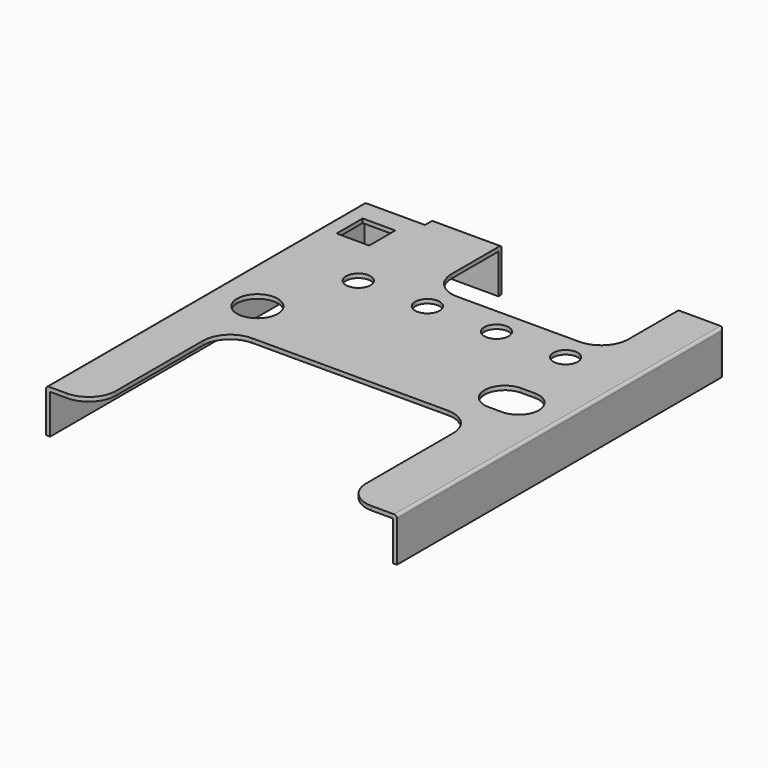
from build123d import *

# Parameters (mm, degrees)
F0_R     = 0.75
F0_R_2   = 0.45
F0_W     = 1.2
F0_H     = 1.2
F1_DEPTH = 0.15
F2_W     = 1.5
F2_H     = 0.15
F2_W_2   = 0.15
F2_H_2   = 14.45
F3_DEPTH = 1.45
F4_R     = 1
F5_R     = 0.1


with BuildPart() as f1:
    # F0 (on Top) → F1 (new body)
    with BuildSketch(Plane.XY):
        Polygon((0, 14.6), (0, 0), (1.77, 0), (1.77, 6), (10.97, 6), (10.97, 0), (12.9, 0), (12.9, 15), (11.25, 15), (11.25, 11.7), (4.75, 11.7), (4.75, 15), (2.25, 15), (2.25, 14.6), align=None)
        with Locations((1.65, 7.65)):
            Circle(F0_R, mode=Mode.SUBTRACT)
        with Locations((2.92, 10.7)):
            Circle(F0_R_2, mode=Mode.SUBTRACT)
        with Locations((5.46, 10.7)):
            Circle(F0_R_2, mode=Mode.SUBTRACT)
        with Locations((1.2, 13.2)):
            Rectangle(F0_W, F0_H, mode=Mode.SUBTRACT)
        with Locations((8, 10.7)):
            Circle(F0_R_2, mode=Mode.SUBTRACT)
        with BuildLine():
            ThreePointArc((11.25, 8.4), (12, 7.65), (11.25, 6.9))
            Line((11.25, 6.9), (10.75, 6.9))
            ThreePointArc((10.75, 6.9), (10, 7.65), (10.75, 8.4))
            Line((10.75, 8.4), (11.25, 8.4))
        make_face(mode=Mode.SUBTRACT)
        with Locations((10.54, 10.7)):
            Circle(F0_R_2, mode=Mode.SUBTRACT)
    extrude(amount=F1_DEPTH)

    # F2 (on face) → F3 (join)
    with BuildSketch(Plane(origin=(0, 0, 0), x_dir=(1, 0, 0), z_dir=(0, 0, -1))):
        Polygon((12.9, -15), (12.9, 0), (12.75, 0), (12.75, -14.85), (12.75, -15), align=None)
        with Locations((12, -14.925)):
            Rectangle(F2_W, F2_H)
        Polygon((4.75, -15), (4.75, -14.85), (2.4, -14.85), (2.25, -14.85), (2.25, -15), align=None)
        Polygon((2.25, -14.85), (2.4, -14.85), (2.4, -14.45), (2.25, -14.45), (2.25, -14.6), align=None)
        Polygon((2.25, -14.45), (0.15, -14.45), (0, -14.45), (0, -14.6), (2.25, -14.6), align=None)
        with Locations((0.075, -7.225)):
            Rectangle(F2_W_2, F2_H_2)
    extrude(amount=F3_DEPTH)

    # F4
    f4_edges = [f1.edges().sort_by_distance(p)[0] for p in [
        (1.77, 6, 0.075),
        (1.77, 0, 0.075),
        (10.97, 6, 0.075),
        (10.97, 0, 0.075),
        (4.75, 11.7, 0.075),
        (11.25, 11.7, 0.075),
    ]]
    fillet(f4_edges, radius=F4_R)

    # F5
    f5_edges = [f1.edges().sort_by_distance(p)[0] for p in [
        (12.9, 7.5, 0.15),
        (0, 7.3, 0.15),
        (3.5, 15, 0.15),
        (0, 14.6, -0.65),
        (12.9, 15, -0.65),
    ]]
    fillet(f5_edges, radius=F5_R)


solid = f1.part
